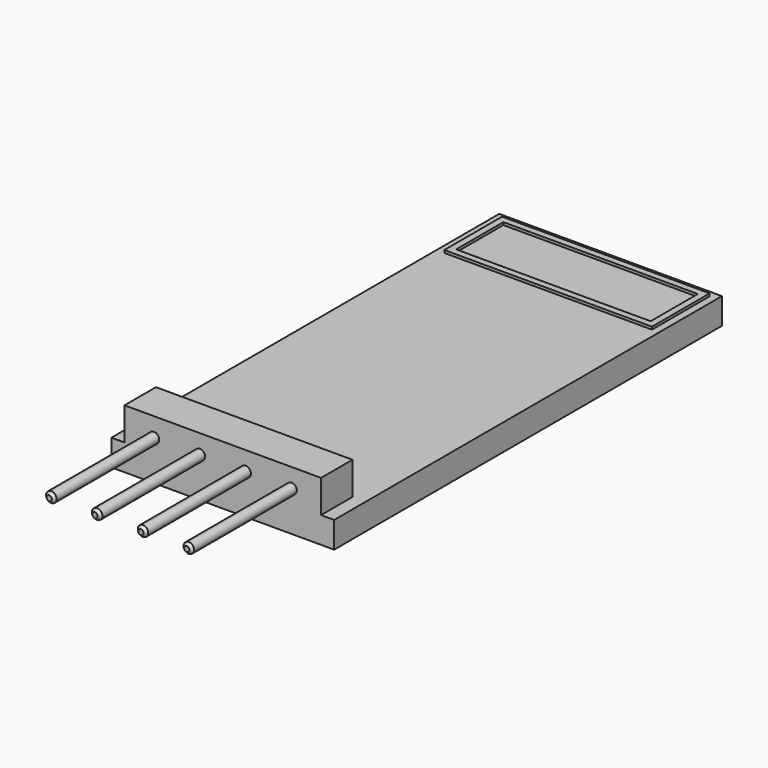
from build123d import *

# Parameters (mm, degrees)
F0_W     = 17
F0_H     = 37
F1_DEPTH = 1
F2_W     = 15
F2_H     = 3
F3_DEPTH = 2.5
F4_R     = 0.4
F5_DEPTH = 10
F6_SIZE  = 0.2
F7_W     = 15.848501
F7_H     = 5.506014
F7_W_2   = 14.848501
F7_H_2   = 4.506014
F8_DEPTH = 0.2


with BuildPart() as f1:
    # F0 (on Top) → F1 (new body, symmetric)
    with BuildSketch(Plane.XY):
        Rectangle(F0_W, F0_H)
    extrude(amount=F1_DEPTH, both=True)

    # F2 (on face) → F3 (join)
    with BuildSketch(Plane.XY.offset(1)):
        with Locations((0, -17)):
            Rectangle(F2_W, F2_H)
    extrude(amount=F3_DEPTH)

    # F4 (on face) → F5 (join)
    with BuildSketch(Plane.XZ.offset(18.5)):
        with Locations((-5.25, 2.047768)):
            Circle(F4_R)
        with Locations((-1.75, 2.047768)):
            Circle(F4_R)
        with Locations((1.75, 2.047768)):
            Circle(F4_R)
        with Locations((5.25, 2.047768)):
            Circle(F4_R)
    extrude(amount=F5_DEPTH)

    # F6
    f6_edges = [f1.edges().sort_by_distance(p)[0] for p in [
        (-5.65, -28.5, 2.047768),
        (-2.15, -28.5, 2.047768),
        (1.35, -28.5, 2.047768),
        (4.85, -28.5, 2.047768),
    ]]
    chamfer(f6_edges, length=F6_SIZE)

    # F7 (on face) → F8 (join)
    with BuildSketch(Plane.XY.offset(1)):
        with Locations((0.022752, 15.266673)):
            Rectangle(F7_W, F7_H)
        with Locations((0.022752, 15.266673)):
            Rectangle(F7_W_2, F7_H_2, mode=Mode.SUBTRACT)
    extrude(amount=F8_DEPTH)


solid = f1.part
